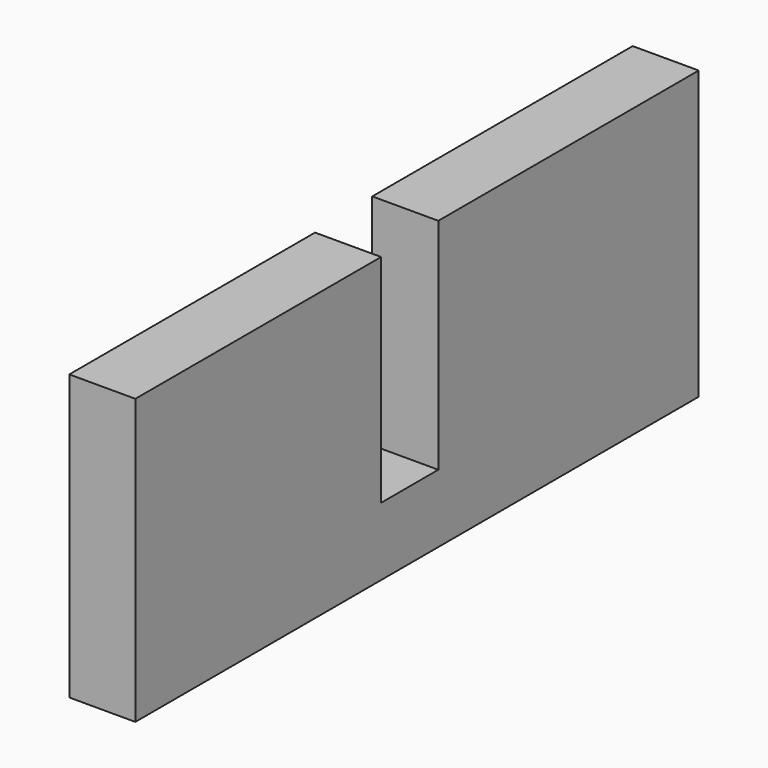
from build123d import *

# Parameters (mm, degrees)
F0_W       = 52.5342468172
F0_H       = 49.9637834728
F1_DEPTH   = 48.514
F2_W       = 48.514
F2_H       = 24.9818917364
F3_DEPTH   = 46.99
F4_W       = 48.514
F4_H       = 24.9818917364
F5_DEPTH   = 49.53
F6_W       = 48.514
F6_H       = 49.53
F7_DEPTH   = 45.72
F8_W       = 48.514
F8_H       = 46.99
F9_DEPTH   = 45.974
F10_W      = 48.514
F10_H      = 46.99
F11_DEPTH  = 137.922
F12_DEPTH  = 140.208
F13_W      = 48.514
F13_H      = 208.8778917364
F14_DEPTH  = 153.162
F15_W      = 48.514
F15_H      = 208.8778917364
F12_FACE_W = 48.514
F12_FACE_H = 210.9098917364
F16_DEPTH  = 25.4
F17_DEPTH  = 189.484


with BuildPart() as f1:
    # F0 (on Right) → F1 (new body)
    with BuildSketch(Plane.YZ):
        with Locations((-53.4399999306, 24.9818917364)):
            Rectangle(F0_W, F0_H)
    extrude(amount=F1_DEPTH)

    # F2 (on face) → F3 (join)
    with BuildSketch(Plane.XZ.offset(79.7071233392)):
        with Locations((24.257, 12.4909458682)):
            Rectangle(F2_W, F2_H)
    extrude(amount=F3_DEPTH)

    # F4 (on face) → F5 (join)
    with BuildSketch(Plane(origin=(0, -27.1728765219, 0), x_dir=(-1, 0, 0), z_dir=(0, 1, 0))):
        with Locations((-24.257, 12.4909458682)):
            Rectangle(F4_W, F4_H)
    extrude(amount=F5_DEPTH)

    # F6 (on face) → F7 (join)
    with BuildSketch(Plane.XY.offset(24.9818917364)):
        with Locations((24.257, -2.4078765219)):
            Rectangle(F6_W, F6_H)
    extrude(amount=F7_DEPTH)

    # F8 (on face) → F9 (join)
    with BuildSketch(Plane.XY.offset(24.9818917364)):
        with Locations((24.257, -103.2021233392)):
            Rectangle(F8_W, F8_H)
    extrude(amount=F9_DEPTH)

    # F10 (on face) → F11 (join)
    with BuildSketch(Plane.XY.offset(70.9558917364)):
        with Locations((24.257, -103.2021233392)):
            Rectangle(F10_W, F10_H)
    extrude(amount=F11_DEPTH)

    # F12 (add): a face of the model
    f12_faces = [f1.faces().sort_by_distance(p)[0] for p in [
        (24.257, -2.4078765219, 70.7018917364),
    ]]
    extrude(f12_faces, amount=F12_DEPTH)

    # F13 (on face) → F14 (join)
    with BuildSketch(Plane.XZ.offset(126.6971233392)):
        with Locations((24.257, 104.4389458682)):
            Rectangle(F13_W, F13_H)
    extrude(amount=F14_DEPTH)

    # F15 (on face) + F12_face (on face) → F16 (join)
    with BuildSketch(Plane.XZ.offset(279.8591233392)):
        with Locations((24.257, 104.4389458682)):
            Rectangle(F15_W, F15_H)
    with BuildSketch(Plane(origin=(24.257, 22.3571234781, 105.4549458682), x_dir=(-1, 0, 0), z_dir=(0, 1, 0))):
        Rectangle(F12_FACE_W, F12_FACE_H)
    extrude(amount=F16_DEPTH, dir=(0, -1, 0))

    # F17 (add): a face of the model
    f17_faces = [f1.faces().sort_by_distance(p)[0] for p in [
        (24.257, 22.3571234781, 105.4549458682),
    ]]
    extrude(f17_faces, amount=F17_DEPTH)


solid = f1.part
